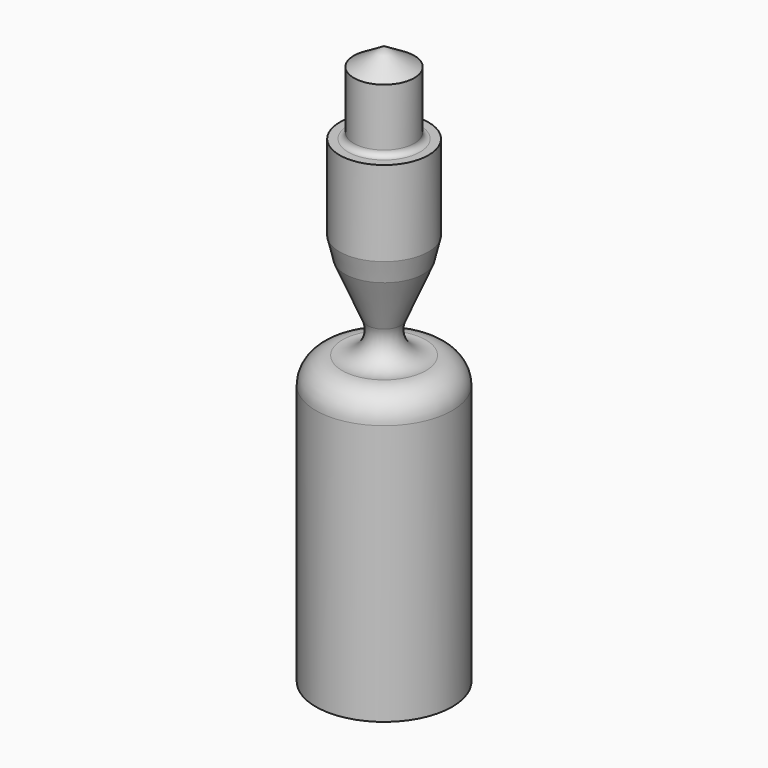
from build123d import *


with BuildPart() as f1:
    # F0 (on Front) → F1 (revolve)
    with BuildSketch(Plane.XZ):
        with BuildLine():
            Line((5.250814, -16.005392), (5.250814, -6.005392))
            Line((5.250814, -6.005392), (0, -2.836546))
            Line((0, -2.836546), (0, -100))
            Line((0, -100), (11.851529, -100))
            Line((11.851529, -100), (11.851529, -54.711972))
            ThreePointArc((11.851529, -54.711972), (10.504539, -51.460051), (7.252618, -50.113061))
            ThreePointArc((7.252618, -50.113061), (3.472311, -48.622302), (2.947314, -44.592729))
            Line((2.947314, -44.592729), (6.841612, -35.464703))
            Line((6.841612, -35.464703), (7.723922, -31.773916))
            Line((7.723922, -31.773916), (7.723922, -17.005392))
            Line((7.723922, -17.005392), (6.250814, -17.005392))
            ThreePointArc((6.250814, -17.005392), (5.543708, -16.712499), (5.250814, -16.005392))
        make_face()
    revolve(axis=Axis((0, 0, -51.418273), (0, 0, 1)))


solid = f1.part
